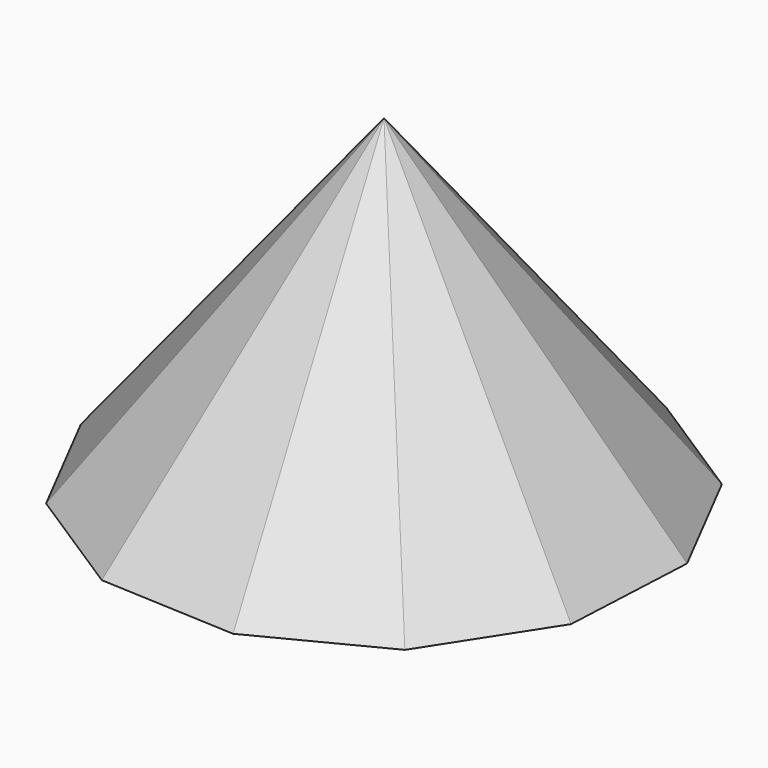
from build123d import *


with BuildPart() as f3:
    # F0 (on Top) → F3 section 0
    with BuildSketch(Plane.XY, mode=Mode.PRIVATE) as f3_s0:
        Polygon((17.049243, -78.912465), (54.22131, -59.815578), (76.864821, -24.691155), (78.912465, 17.049243), (59.815578, 54.22131), (24.691155, 76.864821), (-17.049243, 78.912465), (-54.22131, 59.815578), (-76.864821, 24.691155), (-78.912465, -17.049243), (-59.815578, -54.22131), (-24.691155, -76.864821), align=None)
    loft([Vertex(0, 0, 101), f3_s0.sketch])


solid = f3.part
